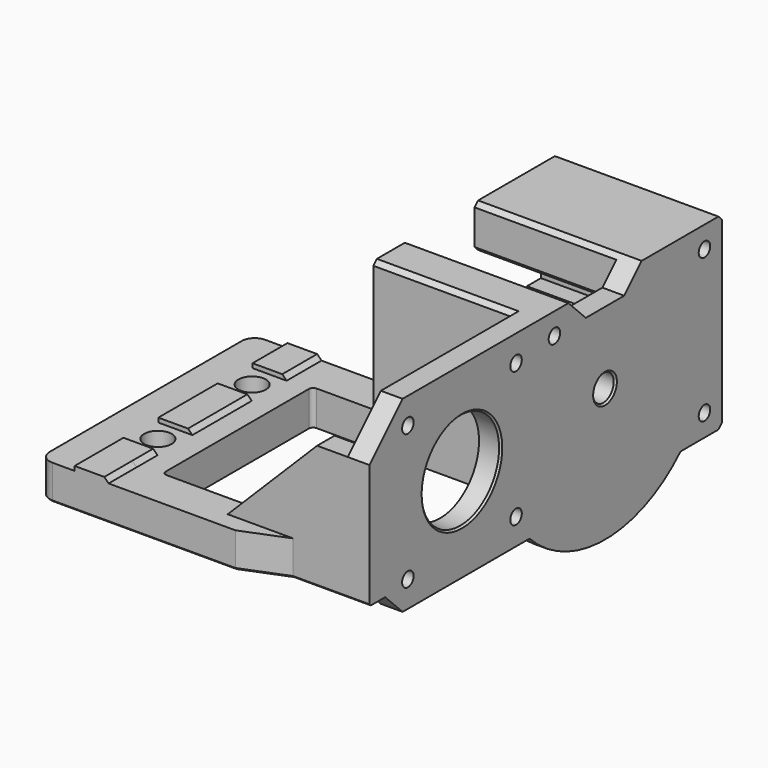
from build123d import *

# Parameters (mm, degrees)
BOX075_W                              = 10
BOX075_H                              = 10
BOX075_DEPTH                          = 10
BOX074_W                              = 10
BOX074_H                              = 10
BOX074_DEPTH                          = 10
BOX064_W                              = 33
BOX064_H                              = 7
BOX064_DEPTH                          = 21.5
BOX067_W                              = 33
BOX067_H                              = 3
BOX067_DEPTH                          = 3
CHAMFER029006005013005005001002_SIZE  = 2
BOX066_W                              = 33
BOX066_H                              = 3
BOX066_DEPTH                          = 3
CHAMFER029006005013005005001003_SIZE  = 2
BOX070_W                              = 6
BOX070_H                              = 8
BOX070_DEPTH                          = 8
BOX069_W                              = 55
BOX069_H                              = 5
BOX069_DEPTH                          = 8
CHAMFER029006005013005005001004_SIZE2 = 10
CHAMFER029006005013005005001004_SIZE  = 4
BOX071_W                              = 7.8
BOX071_H                              = 8
BOX071_DEPTH                          = 1
CHAMFER029006005013005005001005_SIZE  = 0.99
FILLET004_R                           = 3
CHAMFER029006005013005005001006_SIZE  = 0.4
CYLINDER048_R                         = 1.9
CYLINDER048_DEPTH                     = 10
CYLINDER042_R                         = 1.9
CYLINDER042_DEPTH                     = 10
BOX047_W                              = 33
BOX047_H                              = 2
BOX047_DEPTH                          = 15
BOX048_W                              = 33
BOX048_H                              = 9
BOX048_DEPTH                          = 4
BOX060_W                              = 5
BOX060_H                              = 49.5
BOX060_DEPTH                          = 6
CHAMFER029006005010_SIZE              = 3
BOX037_W                              = 14
BOX037_H                              = 43
BOX037_DEPTH                          = 10
FILLET003_R                           = 1
BOX020_W                              = 10
BOX020_H                              = 21
BOX020_DEPTH                          = 10
CHAMFER025_SIZE                       = 5
CYLINDER008_R                         = 1.65
CYLINDER008_DEPTH                     = 110
CYLINDER009_R                         = 1.65
CYLINDER009_DEPTH                     = 110
CYLINDER010_R                         = 1.65
CYLINDER010_DEPTH                     = 110
BOX011_W                              = 33
BOX011_H                              = 24
BOX011_DEPTH                          = 10
CHAMFER009_SIZE                       = 1
BOX013_W                              = 33
BOX013_H                              = 10
BOX013_DEPTH                          = 10
CHAMFER005_SIZE                       = 1
BOX012_W                              = 33
BOX012_H                              = 10
BOX012_DEPTH                          = 20
CHAMFER023_SIZE                       = 1
CYLINDER024_R                         = 3
CYLINDER024_DEPTH                     = 83
CYLINDER003_R                         = 5.55
CYLINDER003_DEPTH                     = 4
CYLINDER023_R                         = 11.5
CYLINDER023_DEPTH                     = 12
CHAMFER021_SIZE                       = 1
CHAMFER022_SIZE                       = 0.4
CYLINDER021_R                         = 1.65
CYLINDER021_DEPTH                     = 30
CYLINDER020_R                         = 1.65
CYLINDER020_DEPTH                     = 30
CYLINDER019_R                         = 1.65
CYLINDER019_DEPTH                     = 30
CYLINDER022_R                         = 1.65
CYLINDER022_DEPTH                     = 30
CYLINDER016_R                         = 11.15
CYLINDER016_DEPTH                     = 83
BOX007_W                              = 28
BOX007_H                              = 5
BOX007_DEPTH                          = 28.5
CHAMFER018_SIZE                       = 0.5
CHAMFER019_SIZE                       = 20.5
BOX015_W                              = 10
BOX015_H                              = 48.5
BOX015_DEPTH                          = 10
CHAMFER014_SIZE                       = 5
BOX016_W                              = 10
BOX016_H                              = 58.5
BOX016_DEPTH                          = 10
CHAMFER013_SIZE                       = 5
BOX_W                                 = 5
BOX_H                                 = 101
BOX_DEPTH                             = 43
CHAMFER008_SIZE                       = 1
CHAMFER015_SIZE                       = 9.5
CHAMFER017_SIZE                       = 0.4
CYLINDER018_R                         = 3.15
CYLINDER018_DEPTH                     = 10
CYLINDER017_R                         = 3.15
CYLINDER017_DEPTH                     = 10
BOX010_W                              = 40.5
BOX010_H                              = 43
BOX010_DEPTH                          = 8
BOX009_W                              = 72
BOX009_H                              = 57
BOX009_DEPTH                          = 8
FILLET001_R                           = 3
CHAMFER016_SIZE                       = 0.4
BOX019_W                              = 7.8
BOX019_H                              = 11
BOX019_DEPTH                          = 2
BOX017_W                              = 7.8
BOX017_H                              = 11
BOX017_DEPTH                          = 2
BOX018_W                              = 7.8
BOX018_H                              = 19
BOX018_DEPTH                          = 2
CHAMFER020_SIZE                       = 1
CHAMFER024_SIZE                       = 0.4
CHAMFER029006005014_SIZE              = 0.4
BOX061_W                              = 10
BOX061_H                              = 58
BOX061_DEPTH                          = 10
CYLINDER045_R                         = 30.5
CYLINDER045_DEPTH                     = 3


with BuildPart() as cube075:
    # Box075 → Box075 (new body)
    with BuildSketch(Plane(origin=(-20, -16.5, 0), x_dir=(1, 0, 0), z_dir=(0, 0, 1))):
        with Locations((5, 5)):
            Rectangle(BOX075_W, BOX075_H)
    extrude(amount=BOX075_DEPTH)


with BuildPart() as fusion006002011004053036004001_body:
    # Box074 → Box074 (new body)
    with BuildSketch(Plane(origin=(-20, 10.5, 0), x_dir=(1, 0, 0), z_dir=(0, 0, 1))):
        with Locations((5, 5)):
            Rectangle(BOX074_W, BOX074_H)
    extrude(amount=BOX074_DEPTH)

    # Fusion006002011004053036004001028003011016007002001004: union Cube075
    add(cube075.part)


with BuildPart() as cube064:
    # Box064 → Box064 (new body)
    with BuildSketch(Plane(origin=(8, 21.5, 0), x_dir=(1, 0, 0), z_dir=(0, 0, 1))):
        with Locations((16.5, 3.5)):
            Rectangle(BOX064_W, BOX064_H)
    extrude(amount=BOX064_DEPTH)


with BuildPart() as chamfer029006005013005005001002:
    # Box067 → Box067 (new body)
    with BuildSketch(Plane(origin=(8, 27.5, 18), x_dir=(1, 0, 0), z_dir=(0, 0, 1))):
        with Locations((16.5, 1.5)):
            Rectangle(BOX067_W, BOX067_H)
    extrude(amount=BOX067_DEPTH)

    # Chamfer029006005013005005001002
    chamfer029006005013005005001002_edges = [chamfer029006005013005005001002.edges().sort_by_distance(p)[0] for p in [
        (24.5, 30.5, 18),
    ]]
    chamfer(chamfer029006005013005005001002_edges, length=CHAMFER029006005013005005001002_SIZE)


with BuildPart() as rf_1_motor:
    # Box066 → Box066 (new body)
    with BuildSketch(Plane(origin=(8, 27.5, -1), x_dir=(1, 0, 0), z_dir=(0, 0, 1))):
        with Locations((16.5, 1.5)):
            Rectangle(BOX066_W, BOX066_H)
    extrude(amount=BOX066_DEPTH)

    # Chamfer029006005013005005001003
    chamfer029006005013005005001003_edges = [rf_1_motor.edges().sort_by_distance(p)[0] for p in [
        (24.5, 30.5, 2),
    ]]
    chamfer(chamfer029006005013005005001003_edges, length=CHAMFER029006005013005005001003_SIZE)

    # Fusion006002011004053036004001028003011016005: union Cube064, Chamfer029006005013005005001002
    add(cube064.part)
    add(chamfer029006005013005005001002.part)


with BuildPart() as cube070:
    # Box070 → Box070 (new body)
    with BuildSketch(Plane(origin=(-27, -30.5, -8), x_dir=(1, 0, 0), z_dir=(0, 0, 1))):
        with Locations((3, 4)):
            Rectangle(BOX070_W, BOX070_H)
    extrude(amount=BOX070_DEPTH)


with BuildPart() as fusion006002011004053036004001_body2:
    # Box069 → Box069 (new body)
    with BuildSketch(Plane(origin=(-27, -30.5, -8), x_dir=(1, 0, 0), z_dir=(0, 0, 1))):
        with Locations((27.5, 2.5)):
            Rectangle(BOX069_W, BOX069_H)
    extrude(amount=BOX069_DEPTH)

    # Chamfer029006005013005005001004
    chamfer029006005013005005001004_edges = [fusion006002011004053036004001_body2.edges().sort_by_distance(p)[0] for p in [
        (28, -30.5, -4),
    ]]
    chamfer029006005013005005001004_side = fusion006002011004053036004001_body2.faces().sort_by_distance((28, -28, -4))[0]
    chamfer(chamfer029006005013005005001004_edges, length=CHAMFER029006005013005005001004_SIZE, length2=CHAMFER029006005013005005001004_SIZE2, reference=chamfer029006005013005005001004_side)

    # Fusion006002011004053036004001028003011016006: union Cube070
    add(cube070.part)


with BuildPart() as chamfer029006005013005005001006:
    # Box071 → Box071 (new body)
    with BuildSketch(Plane(origin=(-18.9, -30.5, 0), x_dir=(1, 0, 0), z_dir=(0, 0, 1))):
        with Locations((3.9, 4)):
            Rectangle(BOX071_W, BOX071_H)
    extrude(amount=BOX071_DEPTH)

    # Chamfer029006005013005005001005
    chamfer029006005013005005001005_edges = [chamfer029006005013005005001006.edges().sort_by_distance(p)[0] for p in [
        (-11.1, -26.5, 1),
    ]]
    chamfer(chamfer029006005013005005001005_edges, length=CHAMFER029006005013005005001005_SIZE)

    # Fusion006002011004053036004001028003011016007: union Fusion006002011004053036004001 body2
    add(fusion006002011004053036004001_body2.part)

    # Fillet004
    fillet004_edges = [chamfer029006005013005005001006.edges().sort_by_distance(p)[0] for p in [
        (-27, -30.5, -4),
    ]]
    fillet(fillet004_edges, radius=FILLET004_R)

    # Chamfer029006005013005005001006
    chamfer029006005013005005001006_edges = [chamfer029006005013005005001006.edges().sort_by_distance(p)[0] for p in [
        (-3, -30.5, -8),
        (-26.12132, -29.62132, -8),
        (-27, -25, -8),
        (28, -26, -8),
        (23, -28.5, -8),
    ]]
    chamfer(chamfer029006005013005005001006_edges, length=CHAMFER029006005013005005001006_SIZE)


with BuildPart() as cylinder048:
    # Cylinder048 → Cylinder048 (new body)
    with BuildSketch(Plane(origin=(24.25, 60, -13), x_dir=(1, 0, 0), z_dir=(0, 0, 1))):
        Circle(CYLINDER048_R)
    extrude(amount=CYLINDER048_DEPTH)


with BuildPart() as fusion006002011004053036004001_body3:
    # Cylinder042 → Cylinder042 (new body)
    with BuildSketch(Plane(origin=(24.25, 26, -14), x_dir=(1, 0, 0), z_dir=(0, 0, 1))):
        Circle(CYLINDER042_R)
    extrude(amount=CYLINDER042_DEPTH)

    # Fusion006002011004053036004001028003011015: union Cylinder048
    add(cylinder048.part)


with BuildPart() as cube047:
    # Box047 → Box047 (new body)
    with BuildSketch(Plane(origin=(8, 69.5, 6), x_dir=(1, 0, 0), z_dir=(0, 0, 1))):
        with Locations((16.5, 1)):
            Rectangle(BOX047_W, BOX047_H)
    extrude(amount=BOX047_DEPTH)


with BuildPart() as fusion006002011004053036004001_body4:
    # Box048 → Box048 (new body)
    with BuildSketch(Plane(origin=(8, 55.5, -8), x_dir=(1, 0, 0), z_dir=(0, 0, 1))):
        with Locations((16.5, 4.5)):
            Rectangle(BOX048_W, BOX048_H)
    extrude(amount=BOX048_DEPTH)

    # Fusion006002011004053036004001028003011011: union Cube047
    add(cube047.part)


with BuildPart() as chamfer029006005010:
    # Box060 → Box060 (new body)
    with BuildSketch(Plane(origin=(40.5, 16.5, -13), x_dir=(1, 0, 0), z_dir=(0, 0, 1))):
        with Locations((2.5, 24.75)):
            Rectangle(BOX060_W, BOX060_H)
    extrude(amount=BOX060_DEPTH)

    # Chamfer029006005010
    chamfer029006005010_edges = [chamfer029006005010.edges().sort_by_distance(p)[0] for p in [
        (43, 16.5, -7),
        (43, 66, -7),
    ]]
    chamfer(chamfer029006005010_edges, length=CHAMFER029006005010_SIZE)


with BuildPart() as fillet003:
    # Box037 → Box037 (new body)
    with BuildSketch(Plane(origin=(-6, -21.5, -10), x_dir=(1, 0, 0), z_dir=(0, 0, 1))):
        with Locations((7, 21.5)):
            Rectangle(BOX037_W, BOX037_H)
    extrude(amount=BOX037_DEPTH)

    # Fillet003
    fillet003_edges = [fillet003.edges().sort_by_distance(p)[0] for p in [
        (-6, -21.5, -5),
        (-6, 21.5, -5),
    ]]
    fillet(fillet003_edges, radius=FILLET003_R)


with BuildPart() as chamfer025:
    # Box020 → Box020 (new body)
    with BuildSketch(Plane(origin=(38.5, 30.5, 35), x_dir=(1, 0, 0), z_dir=(0, 0, 1))):
        with Locations((5, 10.5)):
            Rectangle(BOX020_W, BOX020_H)
    extrude(amount=BOX020_DEPTH)

    # Chamfer025
    chamfer025_edges = [chamfer025.edges().sort_by_distance(p)[0] for p in [
        (43.5, 30.5, 35),
        (43.5, 51.5, 35),
    ]]
    chamfer(chamfer025_edges, length=CHAMFER025_SIZE)


with BuildPart() as chamfer025_1:
    # Chamfer025 placement: moved
    add(chamfer025.part.moved(Location((0, 0, -10))))


with BuildPart() as cylinder002:
    # Cylinder008 → Cylinder008 (new body)
    with BuildSketch(Plane(origin=(2, 26.5, 25), x_dir=(0, 0, -1), z_dir=(1, 0, 0))):
        Circle(CYLINDER008_R)
    extrude(amount=CYLINDER008_DEPTH)


with BuildPart() as cylinder003:
    # Cylinder009 → Cylinder009 (new body)
    with BuildSketch(Plane(origin=(2, 69.5, 25), x_dir=(0, 0, -1), z_dir=(1, 0, 0))):
        Circle(CYLINDER009_R)
    extrude(amount=CYLINDER009_DEPTH)


with BuildPart() as fusion006002011004053036004001007:
    # Cylinder010 → Cylinder010 (new body)
    with BuildSketch(Plane(origin=(2, 69.5, -8), x_dir=(0, 0, -1), z_dir=(1, 0, 0))):
        Circle(CYLINDER010_R)
    extrude(amount=CYLINDER010_DEPTH)

    # Fusion006002011004053036004001007: union Cylinder002, Cylinder003
    add(cylinder002.part)
    add(cylinder003.part)


with BuildPart() as chamfer009:
    # Box011 → Box011 (new body)
    with BuildSketch(Plane(origin=(8, 50.5, 20), x_dir=(1, 0, 0), z_dir=(0, 0, 1))):
        with Locations((16.5, 12)):
            Rectangle(BOX011_W, BOX011_H)
    extrude(amount=BOX011_DEPTH)

    # Chamfer009
    chamfer009_edges = [chamfer009.edges().sort_by_distance(p)[0] for p in [
        (24.5, 50.5, 20),
        (24.5, 50.5, 30),
        (24.5, 74.5, 20),
        (24.5, 74.5, 30),
    ]]
    chamfer(chamfer009_edges, length=CHAMFER009_SIZE)


with BuildPart() as chamfer005:
    # Box013 → Box013 (new body)
    with BuildSketch(Plane(origin=(8, 21.5, 20), x_dir=(1, 0, 0), z_dir=(0, 0, 1))):
        with Locations((16.5, 5)):
            Rectangle(BOX013_W, BOX013_H)
    extrude(amount=BOX013_DEPTH)

    # Chamfer005
    chamfer005_edges = [chamfer005.edges().sort_by_distance(p)[0] for p in [
        (24.5, 21.5, 20),
        (24.5, 21.5, 30),
        (24.5, 31.5, 20),
        (24.5, 31.5, 30),
    ]]
    chamfer(chamfer005_edges, length=CHAMFER005_SIZE)


with BuildPart() as fusion006002011004053036004001017:
    # Box012 → Box012 (new body)
    with BuildSketch(Plane(origin=(8, 64.5, -13), x_dir=(1, 0, 0), z_dir=(0, 0, 1))):
        with Locations((16.5, 5)):
            Rectangle(BOX012_W, BOX012_H)
    extrude(amount=BOX012_DEPTH)

    # Chamfer023
    chamfer023_edges = [fusion006002011004053036004001017.edges().sort_by_distance(p)[0] for p in [
        (24.5, 64.5, -13),
        (24.5, 64.5, 7),
        (24.5, 74.5, -13),
        (24.5, 74.5, 7),
    ]]
    chamfer(chamfer023_edges, length=CHAMFER023_SIZE)

    # Fusion006002011004053036004001017: union Chamfer009, Chamfer005
    add(chamfer009.part)
    add(chamfer005.part)


with BuildPart() as obj1:
    # Cylinder024 → Cylinder024 (new body)
    with BuildSketch(Plane(origin=(-4.5, 41, 8.5), x_dir=(0, 0, -1), z_dir=(1, 0, 0))):
        Circle(CYLINDER024_R)
    extrude(amount=CYLINDER024_DEPTH)


with BuildPart() as obj2:
    # Cylinder003 → Cylinder003 (new body)
    with BuildSketch(Plane(origin=(30, 41, 8.5), x_dir=(0, 0, -1), z_dir=(1, 0, 0))):
        Circle(CYLINDER003_R)
    extrude(amount=CYLINDER003_DEPTH)


with BuildPart() as chamfer022:
    # Cylinder023 → Cylinder023 (new body)
    with BuildSketch(Plane(origin=(30, 41, 8.5), x_dir=(0, 0, -1), z_dir=(1, 0, 0))):
        Circle(CYLINDER023_R)
    extrude(amount=CYLINDER023_DEPTH)

    # Chamfer021
    chamfer021_edges = [chamfer022.edges().sort_by_distance(p)[0] for p in [
        (30, 41, 20),
    ]]
    chamfer(chamfer021_edges, length=CHAMFER021_SIZE)

    # Cut001018: cut obj2
    add(obj2.part, mode=Mode.SUBTRACT)

    # Chamfer022
    chamfer022_edges = [chamfer022.edges().sort_by_distance(p)[0] for p in [
        (30, 41, 14.05),
    ]]
    chamfer(chamfer022_edges, length=CHAMFER022_SIZE)


with BuildPart() as obj3:
    # Cylinder021 → Cylinder021 (new body)
    with BuildSketch(Plane(origin=(32, -15.5, -7), x_dir=(0, 0, -1), z_dir=(1, 0, 0))):
        Circle(CYLINDER021_R)
    extrude(amount=CYLINDER021_DEPTH)


with BuildPart() as obj4:
    # Cylinder020 → Cylinder020 (new body)
    with BuildSketch(Plane(origin=(32, -15.5, 24), x_dir=(0, 0, -1), z_dir=(1, 0, 0))):
        Circle(CYLINDER020_R)
    extrude(amount=CYLINDER020_DEPTH)


with BuildPart() as obj5:
    # Cylinder019 → Cylinder019 (new body)
    with BuildSketch(Plane(origin=(32, 15.5, 24), x_dir=(0, 0, -1), z_dir=(1, 0, 0))):
        Circle(CYLINDER019_R)
    extrude(amount=CYLINDER019_DEPTH)


with BuildPart() as fusion006002011004053036004001016:
    # Cylinder022 → Cylinder022 (new body)
    with BuildSketch(Plane(origin=(32, 15.5, -7), x_dir=(0, 0, -1), z_dir=(1, 0, 0))):
        Circle(CYLINDER022_R)
    extrude(amount=CYLINDER022_DEPTH)

    # Fusion006002011004053036004001016: union obj3, obj4, obj5
    add(obj3.part)
    add(obj4.part)
    add(obj5.part)


with BuildPart() as obj6:
    # Cylinder016 → Cylinder016 (new body)
    with BuildSketch(Plane(origin=(2.5, 0, 8.5), x_dir=(0, 0, -1), z_dir=(1, 0, 0))):
        Circle(CYLINDER016_R)
    extrude(amount=CYLINDER016_DEPTH)


with BuildPart() as chamfer019:
    # Box007 → Box007 (new body)
    with BuildSketch(Plane(origin=(13, -26.5, -8), x_dir=(1, 0, 0), z_dir=(0, 0, 1))):
        with Locations((14, 2.5)):
            Rectangle(BOX007_W, BOX007_H)
    extrude(amount=BOX007_DEPTH)

    # Chamfer018
    chamfer018_edges = [chamfer019.edges().sort_by_distance(p)[0] for p in [
        (27, -26.5, -8),
    ]]
    chamfer(chamfer018_edges, length=CHAMFER018_SIZE)

    # Chamfer019
    chamfer019_edges = [chamfer019.edges().sort_by_distance(p)[0] for p in [
        (13, -24, 20.5),
    ]]
    chamfer(chamfer019_edges, length=CHAMFER019_SIZE)


with BuildPart() as chamfer014:
    # Box015 → Box015 (new body)
    with BuildSketch(Plane(origin=(36.5, 17, -18), x_dir=(1, 0, 0), z_dir=(0, 0, 1))):
        with Locations((5, 24.25)):
            Rectangle(BOX015_W, BOX015_H)
    extrude(amount=BOX015_DEPTH)

    # Chamfer014
    chamfer014_edges = [chamfer014.edges().sort_by_distance(p)[0] for p in [
        (41.5, 17, -8),
        (41.5, 65.5, -8),
    ]]
    chamfer(chamfer014_edges, length=CHAMFER014_SIZE)


with BuildPart() as chamfer013:
    # Box016 → Box016 (new body)
    with BuildSketch(Plane(origin=(36.5, -75.5, -18), x_dir=(1, 0, 0), z_dir=(0, 0, 1))):
        with Locations((5, 29.25)):
            Rectangle(BOX016_W, BOX016_H)
    extrude(amount=BOX016_DEPTH)

    # Chamfer013
    chamfer013_edges = [chamfer013.edges().sort_by_distance(p)[0] for p in [
        (41.5, -17, -8),
    ]]
    chamfer(chamfer013_edges, length=CHAMFER013_SIZE)


with BuildPart() as chamfer017:
    # Box → Box (new body)
    with BuildSketch(Plane(origin=(40.5, -26.5, -13), x_dir=(1, 0, 0), z_dir=(0, 0, 1))):
        with Locations((2.5, 50.5)):
            Rectangle(BOX_W, BOX_H)
    extrude(amount=BOX_DEPTH)

    # Chamfer008
    chamfer008_edges = [chamfer017.edges().sort_by_distance(p)[0] for p in [
        (43, 74.5, -13),
        (43, 74.5, 30),
    ]]
    chamfer(chamfer008_edges, length=CHAMFER008_SIZE)

    # Cut001013: cut Chamfer013
    add(chamfer013.part, mode=Mode.SUBTRACT)

    # Cut001014: cut Chamfer014
    add(chamfer014.part, mode=Mode.SUBTRACT)

    # Chamfer015
    chamfer015_edges = [chamfer017.edges().sort_by_distance(p)[0] for p in [
        (43, -26.5, 30),
    ]]
    chamfer(chamfer015_edges, length=CHAMFER015_SIZE)

    # Chamfer017
    chamfer017_edges = [chamfer017.edges().sort_by_distance(p)[0] for p in [
        (43, -26.5, -8),
    ]]
    chamfer(chamfer017_edges, length=CHAMFER017_SIZE)


with BuildPart() as cylinder011:
    # Cylinder018 → Cylinder018 (new body)
    with BuildSketch(Plane(origin=(-15, -11.5, 0), x_dir=(1, 0, 0), z_dir=(0, 0, 1))):
        Circle(CYLINDER018_R)
    extrude(amount=CYLINDER018_DEPTH)


with BuildPart() as fusion006002011004053036004001012:
    # Cylinder017 → Cylinder017 (new body)
    with BuildSketch(Plane(origin=(-15, 15.5, 0), x_dir=(1, 0, 0), z_dir=(0, 0, 1))):
        Circle(CYLINDER017_R)
    extrude(amount=CYLINDER017_DEPTH)

    # Fusion006002011004053036004001012: union Cylinder011
    add(cylinder011.part)


with BuildPart() as fusion006002011004053036004001012_1:
    # Fusion006002011004053036004001012 placement: moved
    add(fusion006002011004053036004001012.part.moved(Location((0, 0, -9))))


with BuildPart() as cube010:
    # Box010 → Box010 (new body)
    with BuildSketch(Plane(origin=(0, -21.5, -8), x_dir=(1, 0, 0), z_dir=(0, 0, 1))):
        with Locations((20.25, 21.5)):
            Rectangle(BOX010_W, BOX010_H)
    extrude(amount=BOX010_DEPTH)


with BuildPart() as cut001015:
    # Box009 → Box009 (new body)
    with BuildSketch(Plane(origin=(-27, -26.5, -8), x_dir=(1, 0, 0), z_dir=(0, 0, 1))):
        with Locations((36, 28.5)):
            Rectangle(BOX009_W, BOX009_H)
    extrude(amount=BOX009_DEPTH)

    # Fillet001
    fillet001_edges = [cut001015.edges().sort_by_distance(p)[0] for p in [
        (-27, -26.5, -4),
        (-27, 30.5, -4),
    ]]
    fillet(fillet001_edges, radius=FILLET001_R)

    # Cut001009: cut Cube010
    add(cube010.part, mode=Mode.SUBTRACT)

    # Chamfer016
    chamfer016_edges = [cut001015.edges().sort_by_distance(p)[0] for p in [
        (-27, 2, -8),
        (-26.12132, -25.62132, -8),
        (-26.12132, 29.62132, -8),
        (10.5, -26.5, -8),
        (10.5, 30.5, -8),
    ]]
    chamfer(chamfer016_edges, length=CHAMFER016_SIZE)

    # Cut001015: cut Fusion006002011004053036004001012
    add(fusion006002011004053036004001012_1.part, mode=Mode.SUBTRACT)


with BuildPart() as cube019:
    # Box019 → Box019 (new body)
    with BuildSketch(Plane(origin=(-18.9, 19.5, 0), x_dir=(1, 0, 0), z_dir=(0, 0, 1))):
        with Locations((3.9, 5.5)):
            Rectangle(BOX019_W, BOX019_H)
    extrude(amount=BOX019_DEPTH)


with BuildPart() as cube017:
    # Box017 → Box017 (new body)
    with BuildSketch(Plane(origin=(-18.9, -26.5, 0), x_dir=(1, 0, 0), z_dir=(0, 0, 1))):
        with Locations((3.9, 5.5)):
            Rectangle(BOX017_W, BOX017_H)
    extrude(amount=BOX017_DEPTH)


with BuildPart() as chamfer029006005014:
    # Box018 → Box018 (new body)
    with BuildSketch(Plane(origin=(-18.9, -7.5, 0), x_dir=(1, 0, 0), z_dir=(0, 0, 1))):
        with Locations((3.9, 9.5)):
            Rectangle(BOX018_W, BOX018_H)
    extrude(amount=BOX018_DEPTH)

    # Fusion006002011004053036004001013: union Cube019, Cube017
    add(cube019.part)
    add(cube017.part)


with BuildPart() as chamfer029006005014_1:
    # Fusion006002011004053036004001013 placement: moved
    add(chamfer029006005014.part.moved(Location((0, 0, -1))))

    # Chamfer020
    chamfer020_edges = [chamfer029006005014_1.edges().sort_by_distance(p)[0] for p in [
        (-11.1, 2, 1),
        (-11.1, 25, 1),
        (-11.1, -21, 1),
    ]]
    chamfer(chamfer020_edges, length=CHAMFER020_SIZE)

    # Fusion006002011004053036004001014: union Cut001015
    add(cut001015.part)

    # Fusion006002011004053036004001015: union Chamfer019, Chamfer017
    add(chamfer019.part)
    add(chamfer017.part)

    # Cut001016: cut obj6
    add(obj6.part, mode=Mode.SUBTRACT)

    # Cut001017: cut Fusion006002011004053036004001016
    add(fusion006002011004053036004001016.part, mode=Mode.SUBTRACT)

    # Fusion006002011004053036004001018: union Chamfer022
    add(chamfer022.part)

    # Cut001019: cut obj1
    add(obj1.part, mode=Mode.SUBTRACT)

    # Chamfer024
    chamfer024_edges = [chamfer029006005014_1.edges().sort_by_distance(p)[0] for p in [
        (45.5, 0, 19.65),
        (45.5, 41, 11.5),
        (34, 41, 11.5),
    ]]
    chamfer(chamfer024_edges, length=CHAMFER024_SIZE)

    # Fusion006002011004053036004001019: union Fusion006002011004053036004001017
    add(fusion006002011004053036004001017.part)

    # Cut001020: cut Fusion006002011004053036004001007
    add(fusion006002011004053036004001007.part, mode=Mode.SUBTRACT)

    # Cut001021: cut Chamfer025
    add(chamfer025_1.part, mode=Mode.SUBTRACT)

    # Cut001024014003001002006003: cut Fillet003
    add(fillet003.part, mode=Mode.SUBTRACT)

    # Fusion006002011004053036004001028003011012: union Fusion006002011004053036004001 body4, Chamfer029006005010
    add(fusion006002011004053036004001_body4.part)
    add(chamfer029006005010.part)

    # Cut001024014003001002006005008: cut Fusion006002011004053036004001 body3
    add(fusion006002011004053036004001_body3.part, mode=Mode.SUBTRACT)

    # Chamfer029006005014
    chamfer029006005014_edges = [chamfer029006005014_1.edges().sort_by_distance(p)[0] for p in [
        (22.35, 26, -8),
        (22.35, 60, -8),
    ]]
    chamfer(chamfer029006005014_edges, length=CHAMFER029006005014_SIZE)


with BuildPart() as cube061:
    # Box061 → Box061 (new body)
    with BuildSketch(Plane(origin=(35.5, 8.5, -22.5), x_dir=(1, 0, 0), z_dir=(0, 0, 1))):
        with Locations((5, 29)):
            Rectangle(BOX061_W, BOX061_H)
    extrude(amount=BOX061_DEPTH)


with BuildPart() as motor_plate_r5:
    # Cylinder045 → Cylinder045 (new body)
    with BuildSketch(Plane(origin=(42.5, 41, 8.5), x_dir=(0, 0, -1), z_dir=(1, 0, 0))):
        Circle(CYLINDER045_R)
    extrude(amount=CYLINDER045_DEPTH)

    # Common: intersect Cube061
    add(cube061.part, mode=Mode.INTERSECT)

    # Fusion006002011004053036004001028003011016: union Chamfer029006005014
    add(chamfer029006005014_1.part)

    # Fusion006002011004053036004001028003011016007002: union rf-1-motor, Chamfer029006005013005005001006
    add(rf_1_motor.part)
    add(chamfer029006005013005005001006.part)

    # Cut001024014003001002006005013: cut Fusion006002011004053036004001 body
    add(fusion006002011004053036004001_body.part, mode=Mode.SUBTRACT)


solid = motor_plate_r5.part
